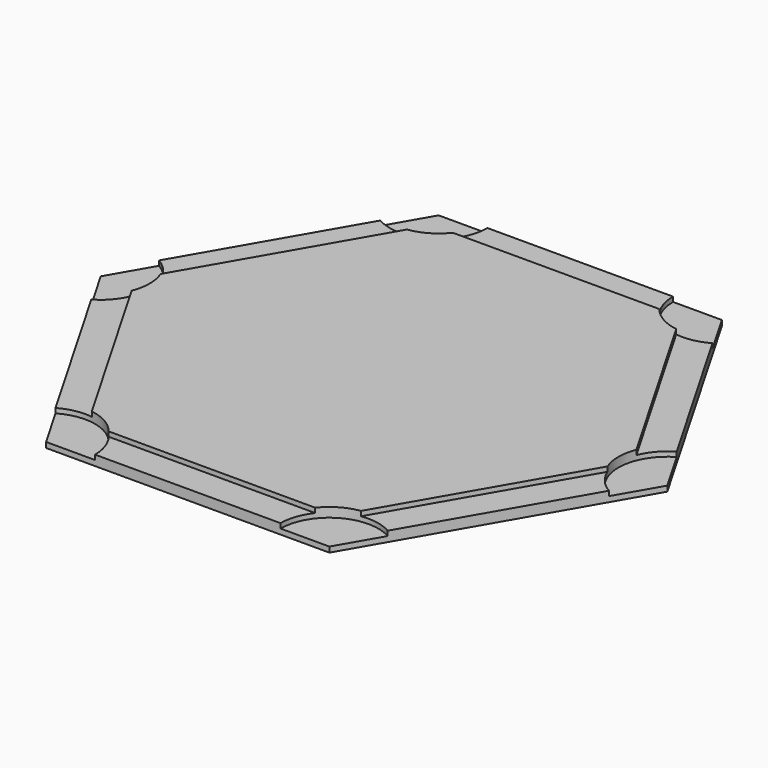
from build123d import *

# Parameters (mm, degrees)
F1_DEPTH = 1.6256
F3_DEPTH = 2.3876
F5_R     = 7.874
F6_DEPTH = 1.524


with BuildPart() as f1:
    # F0 (on Top) → F1 (new body)
    with BuildSketch(Plane.XY):
        Polygon((-22.8219, -39.52869), (22.8219, -39.52869), (45.6438, 0), (22.8219, 39.52869), (-22.8219, 39.52869), (-45.6438, 0), align=None)
    extrude(amount=F1_DEPTH)

    # F2 (on Top) → F3 (join)
    with BuildSketch(Plane.XY):
        Polygon((-20.006278, -34.65189), (20.006278, -34.65189), (40.012556, 0), (20.006278, 34.65189), (-20.006278, 34.65189), (-40.012556, 0), align=None)
    extrude(amount=F3_DEPTH)

    # F5 (on face) → F6 (cut)
    with BuildSketch(Plane.XY.offset(2.3876)):
        with Locations((22.8219, -39.52869)):
            Circle(F5_R)
        with Locations((45.6438, 0)):
            Circle(F5_R)
        with Locations((22.8219, 39.52869)):
            Circle(F5_R)
        with Locations((-22.8219, 39.52869)):
            Circle(F5_R)
        with Locations((-45.6438, 0)):
            Circle(F5_R)
        with Locations((-22.8219, -39.52869)):
            Circle(F5_R)
    extrude(amount=-F6_DEPTH, mode=Mode.SUBTRACT)


solid = f1.part
